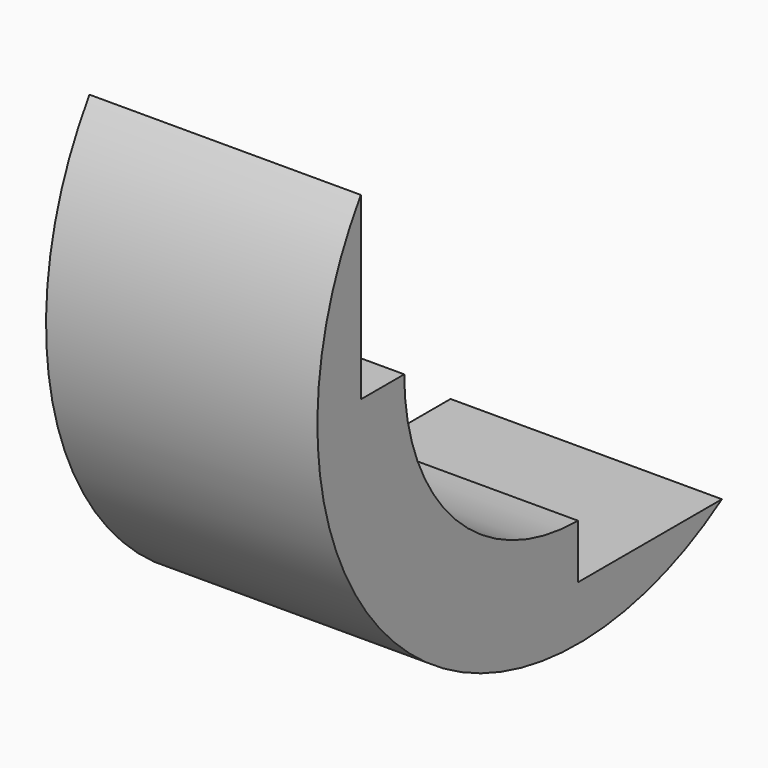
from build123d import *

# Parameters (mm, degrees)
BOX024_W      = 5
BOX024_H      = 10
BOX024_DEPTH  = 8
BOX023_W      = 5
BOX023_H      = 8
BOX023_DEPTH  = 10
TUBE009_R     = 6
TUBE009_R_2   = 4
TUBE009_DEPTH = 5


with BuildPart() as cube024:
    # Box024 → Box024 (new body)
    with BuildSketch(Plane(origin=(0, -2, 3), x_dir=(1, 0, 0), z_dir=(0, 0, 1))):
        with Locations((2.5, 5)):
            Rectangle(BOX024_W, BOX024_H)
    extrude(amount=BOX024_DEPTH)


with BuildPart() as cube023:
    # Box023 → Box023 (new body)
    with BuildSketch(Plane(origin=(0, 3, -2), x_dir=(1, 0, 0), z_dir=(0, 0, 1))):
        with Locations((2.5, 4)):
            Rectangle(BOX023_W, BOX023_H)
    extrude(amount=BOX023_DEPTH)


with BuildPart() as cut028:
    # Tube009 → Tube009 (new body)
    with BuildSketch(Plane(origin=(0, 3, 3), x_dir=(0, 0, -1), z_dir=(1, 0, 0))):
        Circle(TUBE009_R)
        Circle(TUBE009_R_2, mode=Mode.SUBTRACT)
    extrude(amount=TUBE009_DEPTH)

    # Cut027: cut Cube023
    add(cube023.part, mode=Mode.SUBTRACT)

    # Cut028: cut Cube024
    add(cube024.part, mode=Mode.SUBTRACT)


solid = cut028.part
